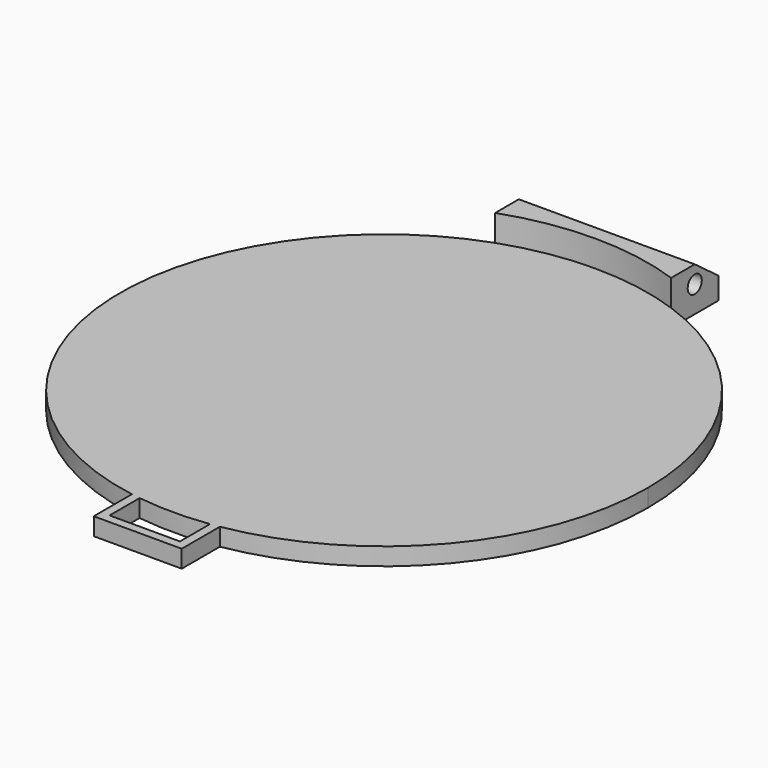
from build123d import *

# Parameters (mm, degrees)
F1_DEPTH = 2
F2_DEPTH = 5
F3_R     = 1
F4_DEPTH = 40.001


with BuildPart() as f1:
    # F0 (on Top) → F1 (new body)
    with BuildSketch(Plane.XY):
        with BuildLine():
            ThreePointArc((5, -29.580399), (22.912878, -19.364917), (30, 0))
            ThreePointArc((30, 0), (24.494897, 17.320508), (10, 28.284271))
            ThreePointArc((10, 28.284271), (0, 30), (-10, 28.284271))
            ThreePointArc((-10, 28.284271), (-29.888627, -2.582632), (-5, -29.580399))
            ThreePointArc((-5, -29.580399), (-4.50064, -29.660483), (-4, -29.732137))
            ThreePointArc((-4, -29.732137), (0, -30), (4, -29.732137))
            ThreePointArc((4, -29.732137), (4.50064, -29.660483), (5, -29.580399))
        make_face()
        with BuildLine():
            Line((5, -35), (5, -29.580399))
            ThreePointArc((5, -29.580399), (4.50064, -29.660483), (4, -29.732137))
            Line((4, -29.732137), (4, -34))
            Line((4, -34), (-4, -34))
            Line((-4, -34), (-4, -29.732137))
            ThreePointArc((-4, -29.732137), (-4.50064, -29.660483), (-5, -29.580399))
            Line((-5, -29.580399), (-5, -35))
            Line((-5, -35), (5, -35))
        make_face()
    extrude(amount=F1_DEPTH)


with BuildPart() as f2:
    # F0 (on Top) → F2 (new body)
    with BuildSketch(Plane.XY):
        with BuildLine():
            ThreePointArc((-10, 28.284271), (0, 30), (10, 28.284271))
            Line((10, 28.284271), (10, 35))
            Line((10, 35), (-10, 35))
            Line((-10, 35), (-10, 28.284271))
        make_face()
    extrude(amount=F2_DEPTH)

    # F3 (on face) → F4 (cut, through all)
    with BuildSketch(Plane.YZ.offset(10)):
        Polygon((31.642136, 5), (35, 2.5), (35, 5), align=None)
        with Locations((31.642136, 3)):
            Circle(F3_R)
    extrude(amount=-F4_DEPTH, mode=Mode.SUBTRACT)


solid = Compound([f1.part, f2.part])
